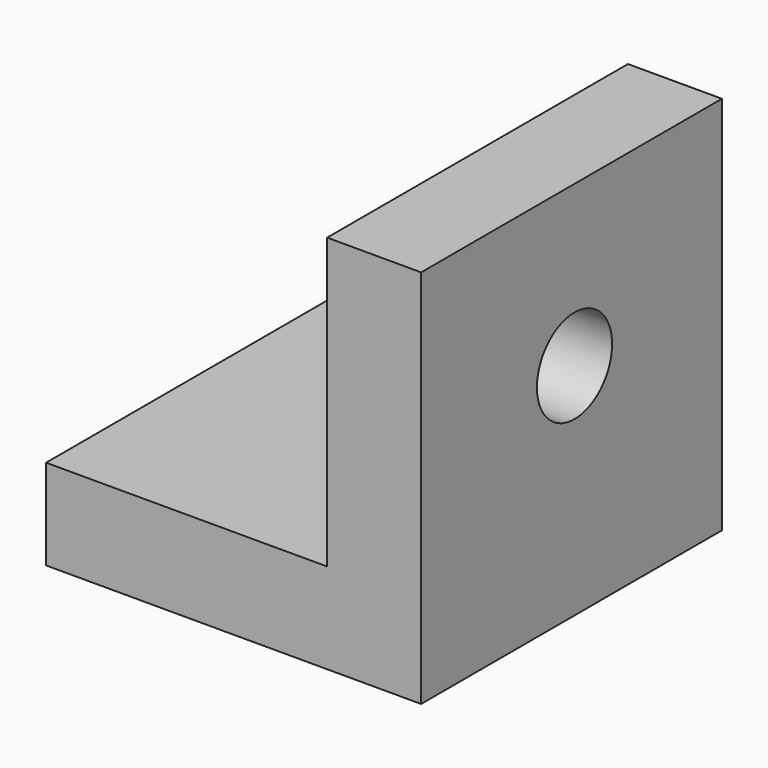
from build123d import *

# Parameters (mm, degrees)
F0_W     = 50.6729986519
F0_H     = 51.3397492468
F1_DEPTH = 50.8
F2_W     = 37.9729986519
F2_H     = 39.115998894
F5_DEPTH = 25.4
F6_DEPTH = 25.4
F7_R     = 6.35
F8_DEPTH = 25.4


with BuildPart() as f1:
    # F0 (on Front) → F1 (new body)
    with BuildSketch(Plane.XZ):
        with Locations((4.444998689, 13.4461242706)):
            Rectangle(F0_W, F0_H)
    extrude(amount=F1_DEPTH)

    # F2 (on face) → F5 (cut)
    with BuildSketch(Plane(origin=(0, 0, 0), x_dir=(-1, 0, 0), z_dir=(0, 1, 0))):
        with Locations((1.905001311, 19.557999447)):
            Rectangle(F2_W, F2_H)
    extrude(amount=-F5_DEPTH, mode=Mode.SUBTRACT)

    # F6 (cut): a face of the model
    f6_faces = [f1.faces().sort_by_distance(p)[0] for p in [
        (-1.905001311, -25.4, 19.557999447),
    ]]
    extrude(f6_faces, amount=-F6_DEPTH, mode=Mode.SUBTRACT)

    # F7 (on face) → F8 (cut)
    with BuildSketch(Plane(origin=(17.0814980149, 0, 0), x_dir=(0, -1, 0), z_dir=(-1, 0, 0))):
        with Locations((24.8914603144, 17.4777153879)):
            Circle(F7_R)
    extrude(amount=-F8_DEPTH, mode=Mode.SUBTRACT)


solid = f1.part
